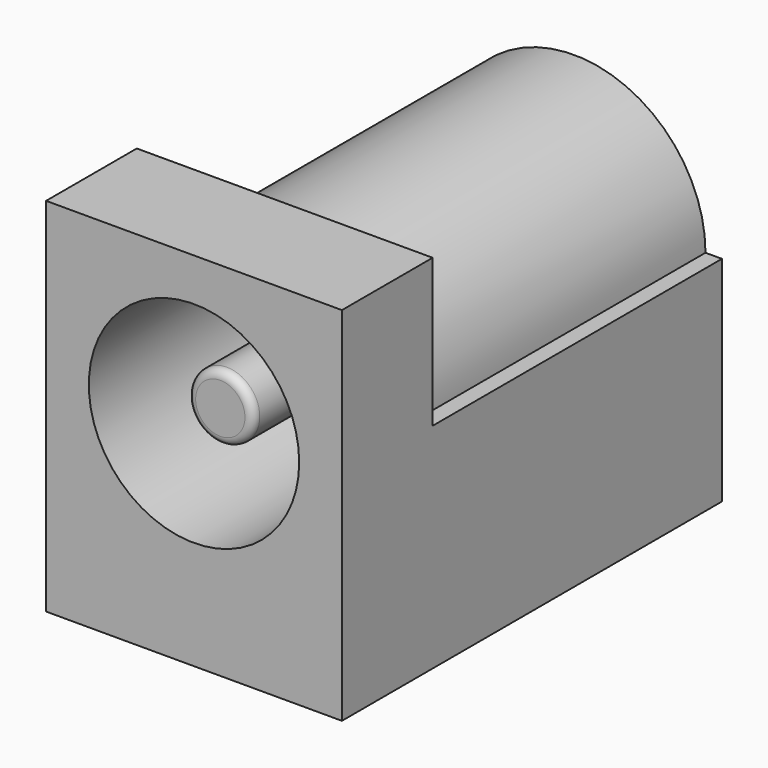
from build123d import *

# Parameters (mm, degrees)
F0_W     = 9
F0_H     = 11
F1_DEPTH = 3.45
F3_DEPTH = 11
F4_R     = 3.2
F5_DEPTH = 9
F6_R     = 1
F7_DEPTH = 8
F8_R     = 0.25


with BuildPart() as f1:
    # F0 (on Front) → F1 (new body)
    with BuildSketch(Plane.XZ):
        with Locations((0, -1)):
            Rectangle(F0_W, F0_H)
        with Locations((0, -1)):
            Rectangle(F0_W, F0_H)
    extrude(amount=-F1_DEPTH)

    # F2 (on face) → F3 (join)
    with BuildSketch(Plane(origin=(0, 3.45, 0), x_dir=(-1, 0, 0), z_dir=(0, 1, 0))):
        with BuildLine():
            ThreePointArc((4, 0), (0, 4), (-4, 0))
            Line((-4, 0), (-4.5, 0))
            Line((-4.5, 0), (-4.5, -6.5))
            Line((-4.5, -6.5), (4.5, -6.5))
            Line((4.5, -6.5), (4.5, 0))
            Line((4.5, 0), (4, 0))
        make_face()
        with BuildLine():
            ThreePointArc((4, 0), (0, 4), (-4, 0))
            Line((-4, 0), (-4.5, 0))
            Line((-4.5, 0), (-4.5, -6.5))
            Line((-4.5, -6.5), (4.5, -6.5))
            Line((4.5, -6.5), (4.5, 0))
            Line((4.5, 0), (4, 0))
        make_face()
    extrude(amount=F3_DEPTH)

    # F4 (on face) → F5 (cut)
    with BuildSketch(Plane.XZ):
        Circle(F4_R)
    extrude(amount=-F5_DEPTH, mode=Mode.SUBTRACT)

    # F6 (on face) → F7 (join)
    with BuildSketch(Plane.XZ.offset(-9)):
        Circle(F6_R)
    extrude(amount=F7_DEPTH)

    # F8
    f8_edges = [f1.edges().sort_by_distance(p)[0] for p in [
        (-1, 1, 0),
    ]]
    fillet(f8_edges, radius=F8_R)


solid = f1.part
